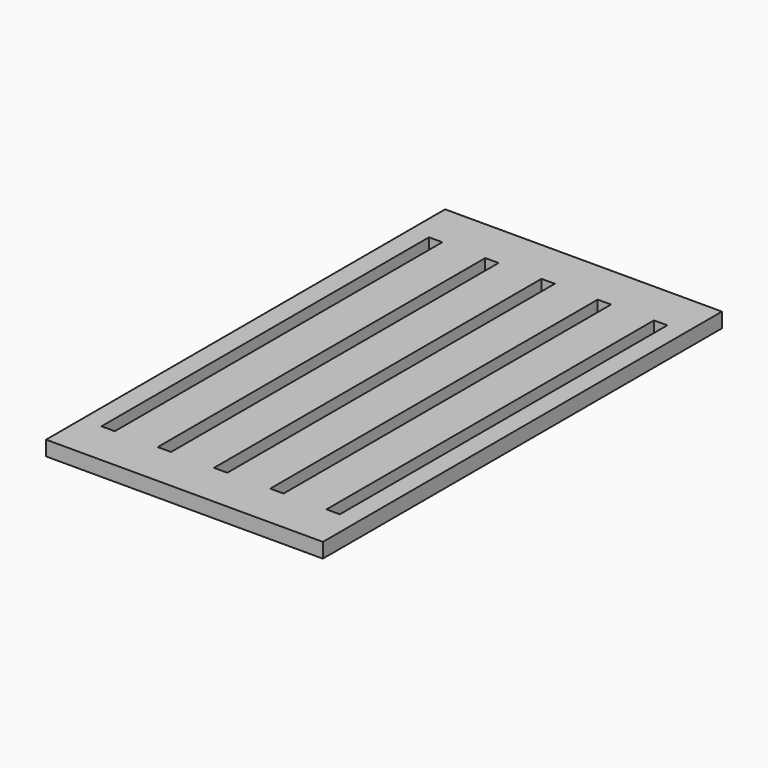
from build123d import *

# Parameters (mm, degrees)
F0_W     = 74.8
F0_H     = 134.8
F0_W_2   = 3.605619
F0_H_2   = 110.626959
F1_DEPTH = 4


with BuildPart() as f1:
    # F0 (on Top) → F1 (new body)
    with BuildSketch(Plane.XY):
        Rectangle(F0_W, F0_H)
        with Locations((-30.278574, -0.018355)):
            Rectangle(F0_W_2, F0_H_2, mode=Mode.SUBTRACT)
        with Locations((-15.078575, -0.018355)):
            Rectangle(F0_W_2, F0_H_2, mode=Mode.SUBTRACT)
        with Locations((0.121425, -0.018355)):
            Rectangle(F0_W_2, F0_H_2, mode=Mode.SUBTRACT)
        with Locations((15.321426, -0.018355)):
            Rectangle(F0_W_2, F0_H_2, mode=Mode.SUBTRACT)
        with Locations((30.521425, -0.018355)):
            Rectangle(F0_W_2, F0_H_2, mode=Mode.SUBTRACT)
    extrude(amount=F1_DEPTH)


solid = f1.part
